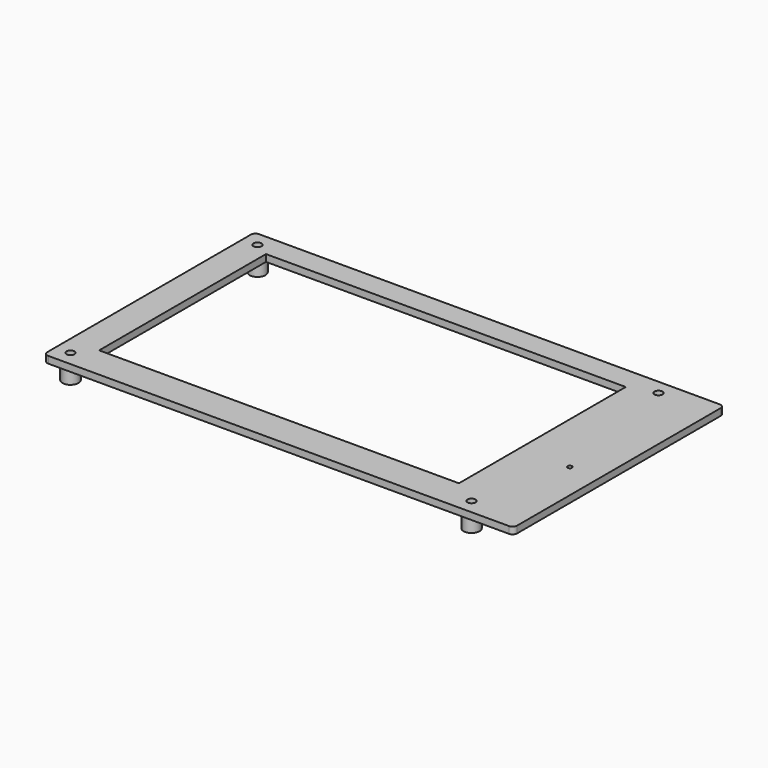
from build123d import *

# Parameters (mm, degrees)
F0_W      = 205
F0_H      = 115
F0_R      = 1.75
F0_W_2    = 157
F0_H_2    = 91
F1_DEPTH  = 3
F2_R      = 2
F3_DEPTH  = 25
F4_R      = 1
F5_DEPTH  = 25
F6_R      = 3.5
F7_DEPTH  = 7.5
F8_R      = 1.75
F9_DEPTH  = 25
F10_R     = 1.75
F11_DEPTH = 25
F12_R     = 1.75
F13_DEPTH = 25
F14_R     = 1.75
F15_DEPTH = 25


with BuildPart() as f1:
    # F0 (on Top) → F1 (new body)
    with BuildSketch(Plane.XY):
        with Locations((-16.301751, 5.736338)):
            Rectangle(F0_W, F0_H)
        with Locations((-112.301751, -45.263662)):
            Circle(F0_R, mode=Mode.SUBTRACT)
        with Locations((62.698249, -45.263662)):
            Circle(F0_R, mode=Mode.SUBTRACT)
        with Locations((-27.301751, 7.736338)):
            Rectangle(F0_W_2, F0_H_2, mode=Mode.SUBTRACT)
        with Locations((-112.301751, 56.736338)):
            Circle(F0_R, mode=Mode.SUBTRACT)
        with Locations((62.698249, 56.736338)):
            Circle(F0_R, mode=Mode.SUBTRACT)
    extrude(amount=F1_DEPTH)

    # F2
    f2_edges = [f1.edges().sort_by_distance(p)[0] for p in [
        (-118.801751, -51.763662, 1.5),
        (-118.801751, 63.236338, 1.5),
        (86.198249, -51.763662, 1.5),
        (86.198249, 63.236338, 1.5),
    ]]
    fillet(f2_edges, radius=F2_R)

    # F0 (on Top) → F3 (cut)
    with BuildSketch(Plane.XY):
        with Locations((-16.301751, 5.736338)):
            Rectangle(F0_W, F0_H)
        with Locations((-112.301751, -45.263662)):
            Circle(F0_R, mode=Mode.SUBTRACT)
        with Locations((62.698249, -45.263662)):
            Circle(F0_R, mode=Mode.SUBTRACT)
        with Locations((-27.301751, 7.736338)):
            Rectangle(F0_W_2, F0_H_2, mode=Mode.SUBTRACT)
        with Locations((-112.301751, 56.736338)):
            Circle(F0_R, mode=Mode.SUBTRACT)
        with Locations((62.698249, 56.736338)):
            Circle(F0_R, mode=Mode.SUBTRACT)
    extrude(amount=-F3_DEPTH, mode=Mode.SUBTRACT)

    # F4 (on face) → F5 (cut)
    with BuildSketch(Plane.XY.offset(3)):
        with Locations((73.198249, -4.763662)):
            Circle(F4_R)
    extrude(amount=-F5_DEPTH, mode=Mode.SUBTRACT)

    # F6 (on face) → F7 (join)
    with BuildSketch(Plane(origin=(0, 0, 0), x_dir=(1, 0, 0), z_dir=(0, 0, -1))):
        with Locations((-112.301751, 45.263662)):
            Circle(F6_R)
        with Locations((-112.301751, -56.736338)):
            Circle(F6_R)
        with Locations((62.698249, 45.263662)):
            Circle(F6_R)
        with Locations((62.698249, -56.736338)):
            Circle(F6_R)
    extrude(amount=F7_DEPTH)

    # F8 (on face) → F9 (cut)
    with BuildSketch(Plane(origin=(0, 0, -7.5), x_dir=(1, 0, 0), z_dir=(0, 0, -1))):
        with Locations((-112.301751, 45.263662)):
            Circle(F8_R)
    extrude(amount=-F9_DEPTH, mode=Mode.SUBTRACT)

    # F10 (on face) → F11 (cut)
    with BuildSketch(Plane(origin=(0, 0, -7.5), x_dir=(1, 0, 0), z_dir=(0, 0, -1))):
        with Locations((-112.301751, -56.736338)):
            Circle(F10_R)
    extrude(amount=-F11_DEPTH, mode=Mode.SUBTRACT)

    # F12 (on face) → F13 (cut)
    with BuildSketch(Plane(origin=(0, 0, -7.5), x_dir=(1, 0, 0), z_dir=(0, 0, -1))):
        with Locations((62.698249, -56.736338)):
            Circle(F12_R)
    extrude(amount=-F13_DEPTH, mode=Mode.SUBTRACT)

    # F14 (on face) → F15 (cut)
    with BuildSketch(Plane(origin=(0, 0, -7.5), x_dir=(1, 0, 0), z_dir=(0, 0, -1))):
        with Locations((62.698249, 45.263662)):
            Circle(F14_R)
    extrude(amount=-F15_DEPTH, mode=Mode.SUBTRACT)


solid = f1.part
